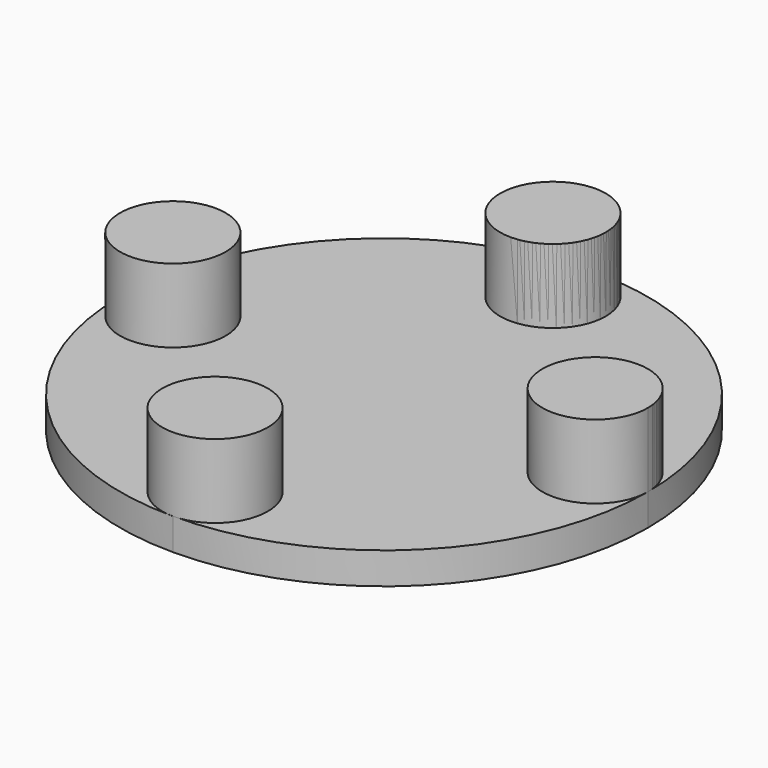
from build123d import *

# Parameters (mm, degrees)
PAD_DEPTH          = 3
PAD001_DEPTH       = 7
PAD002_DEPTH       = 3
PAD003_DEPTH       = 7
POLARPATTERN_COUNT = 4


with BuildPart() as semi_circle:
    # Sketch → Pad (new body)
    with BuildSketch(Plane.XY):
        with BuildLine():
            ThreePointArc((25, 0), (17.67767, 17.67767), (0, 25))
            Line((0, 0), (0, 25))
            Line((25, 0), (0, 0))
        make_face()
    extrude(amount=PAD_DEPTH)

    # Sketch001 (on Face5 of Pad) → Pad001 (join)
    with BuildSketch(Plane.XY.offset(3)):
        with BuildLine():
            ThreePointArc((0, 15), (5, 20), (0, 25))
            Line((0, 15), (0, 25))
        make_face()
        with BuildLine():
            ThreePointArc((25, 0), (20, 5), (15, 0))
            Line((15, 0), (25, 0))
        make_face()
    extrude(amount=PAD001_DEPTH)


with BuildPart() as circle:
    # Sketch002 → Pad002 (new body)
    with BuildSketch(Plane.XY):
        with BuildLine():
            ThreePointArc((25, 0), (17.67767, 17.67767), (0, 25))
            Line((0, 0), (0, 25))
            Line((25, 0), (0, 0))
        make_face()
    extrude(amount=PAD002_DEPTH)

    # Sketch003 (on Face5 of Pad002) → Pad003 (join)
    with BuildSketch(Plane.XY.offset(3)):
        with BuildLine():
            ThreePointArc((0, 15), (5, 20), (0, 25))
            Line((0, 15), (0, 25))
        make_face()
        with BuildLine():
            ThreePointArc((25, 0), (20, 5), (15, 0))
            Line((15, 0), (25, 0))
        make_face()
    extrude(amount=PAD003_DEPTH)

    # PolarPattern: Circle ×4 about axis
    polarpattern_axis = Axis((0, 0, 3), (0, 0, 1))


with BuildPart() as circle_1:
    add(circle.part)
    for i in range(1, POLARPATTERN_COUNT):
        add(circle.part.rotate(polarpattern_axis, i * 360 / POLARPATTERN_COUNT))


solid = Compound([semi_circle.part, circle_1.part])
